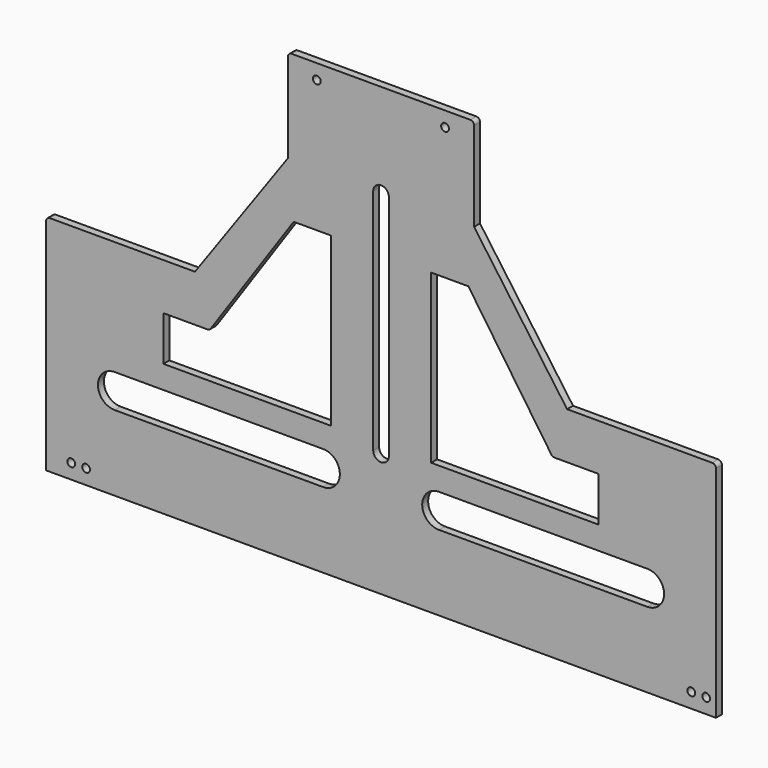
from build123d import *

# Parameters (mm, degrees)
F0_R     = 5.25
F1_DEPTH = 10
F2_R     = 5
F3_R     = 5


with BuildPart() as f1:
    # F0 (on Front) → F1 (new body)
    with BuildSketch(Plane.XZ):
        Polygon((-250, 62.760484), (-450, 62.760484), (-450, -237.239516), (0, -237.239516), (450, -237.239516), (450, 62.760484), (250, 62.760484), (125, 237.760484), (125, 362.760484), (-125, 362.760484), (-125, 237.760484), align=None)
        with Locations((-416.203916, -217.239516)):
            Circle(F0_R, mode=Mode.SUBTRACT)
        with Locations((-396.203916, -217.239516)):
            Circle(F0_R, mode=Mode.SUBTRACT)
        with BuildLine():
            Line((-357.815236, -90.926083), (-77.815236, -90.926083))
            ThreePointArc((-77.815236, -90.926083), (-55.315236, -113.426083), (-77.815236, -135.926083))
            Line((-77.815236, -135.926083), (-357.815236, -135.926083))
            ThreePointArc((-357.815236, -135.926083), (-380.315236, -113.426083), (-357.815236, -90.926083))
        make_face(mode=Mode.SUBTRACT)
        Polygon((-292.343991, -60), (-292.343991, 0), (-230.370536, 0), (-117.343991, 165), (-67.343991, 165), (-67.343991, 0), (-67.343991, -60), align=None, mode=Mode.SUBTRACT)
        with BuildLine():
            ThreePointArc((77.815236, -135.926083), (55.315236, -113.426083), (77.815236, -90.926083))
            Line((77.815236, -90.926083), (357.815236, -90.926083))
            ThreePointArc((357.815236, -90.926083), (380.315236, -113.426083), (357.815236, -135.926083))
            Line((357.815236, -135.926083), (77.815236, -135.926083))
        make_face(mode=Mode.SUBTRACT)
        with Locations((416.841447, -217.239516)):
            Circle(F0_R, mode=Mode.SUBTRACT)
        with Locations((436.841447, -217.239516)):
            Circle(F0_R, mode=Mode.SUBTRACT)
        Polygon((67.343991, 0), (67.343991, 165), (117.343991, 165), (230.370536, 0), (292.343991, 0), (292.343991, -60), (67.343991, -60), align=None, mode=Mode.SUBTRACT)
        with Locations((-86.261913, 342.760484)):
            Circle(F0_R, mode=Mode.SUBTRACT)
        with BuildLine():
            Line((-10.5, 0), (-10.5, 235.897347))
            ThreePointArc((-10.5, 235.897347), (0, 246.397347), (10.5, 235.897347))
            Line((10.5, 235.897347), (10.5, 0))
            Line((10.5, 0), (10.5, -70.725352))
            ThreePointArc((10.5, -70.725352), (0, -81.225352), (-10.5, -70.725352))
            Line((-10.5, -70.725352), (-10.5, 0))
        make_face(mode=Mode.SUBTRACT)
        with Locations((86.048543, 342.760484)):
            Circle(F0_R, mode=Mode.SUBTRACT)
    extrude(amount=F1_DEPTH)

    # F2
    f2_edges = [f1.edges().sort_by_distance(p)[0] for p in [
        (-230.370536, -5, 0),
        (230.370536, -5, 0),
    ]]
    fillet(f2_edges, radius=F2_R)

    # F3
    f3_edges = [f1.edges().sort_by_distance(p)[0] for p in [
        (-450, -5, 62.760484),
        (-125, -5, 362.760484),
        (125, -5, 362.760484),
        (450, -5, 62.760484),
    ]]
    fillet(f3_edges, radius=F3_R)


solid = f1.part
